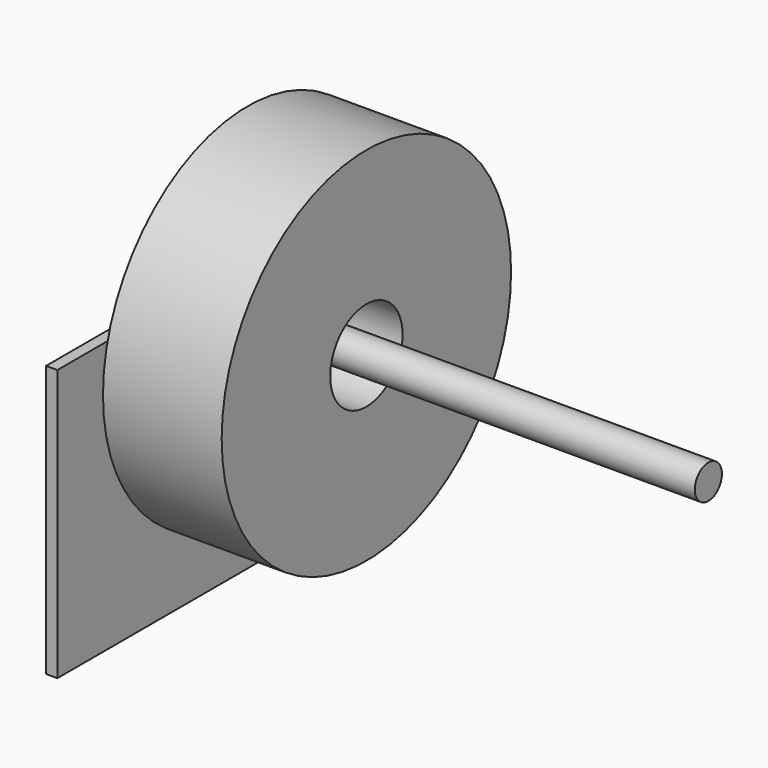
from build123d import *

# Parameters (mm, degrees)
F0_R     = 101.6
F1_DEPTH = 33.3375
F2_R     = 25.4
F3_DEPTH = 66.676
F6_R     = 9.525
F7_DEPTH = 225.425
F8_W     = 254
F8_H     = 152.4
F9_DEPTH = 6.35


with BuildPart() as f1:
    # F0 (on Right) → F1 (new body, symmetric)
    with BuildSketch(Plane.YZ):
        Circle(F0_R)
    extrude(amount=F1_DEPTH, both=True)

    # F2 (on face) → F3 (cut, through all)
    with BuildSketch(Plane.YZ.offset(33.3375)):
        Circle(F2_R)
    extrude(amount=-F3_DEPTH, mode=Mode.SUBTRACT)


with BuildPart() as f4_1:
    # F4: copy of F1
    add(f1.part)


with BuildPart() as f5_1:
    # F5: copy of F4_1
    add(f4_1.part)


with BuildPart() as f7:
    # F6 (on face) → F7 (new body)
    with BuildSketch(Plane.YZ):
        Circle(F6_R)
    extrude(amount=F7_DEPTH)


with BuildPart() as f9:
    # F8 (on face) → F9 (new body)
    with BuildSketch(Plane(origin=(-33.3375, 0, 0), x_dir=(0, -1, 0), z_dir=(-1, 0, 0))):
        with Locations((6.596826, -50.8)):
            Rectangle(F8_W, F8_H)
    extrude(amount=F9_DEPTH)


solid = Compound([f1.part, f4_1.part, f5_1.part, f7.part, f9.part])
